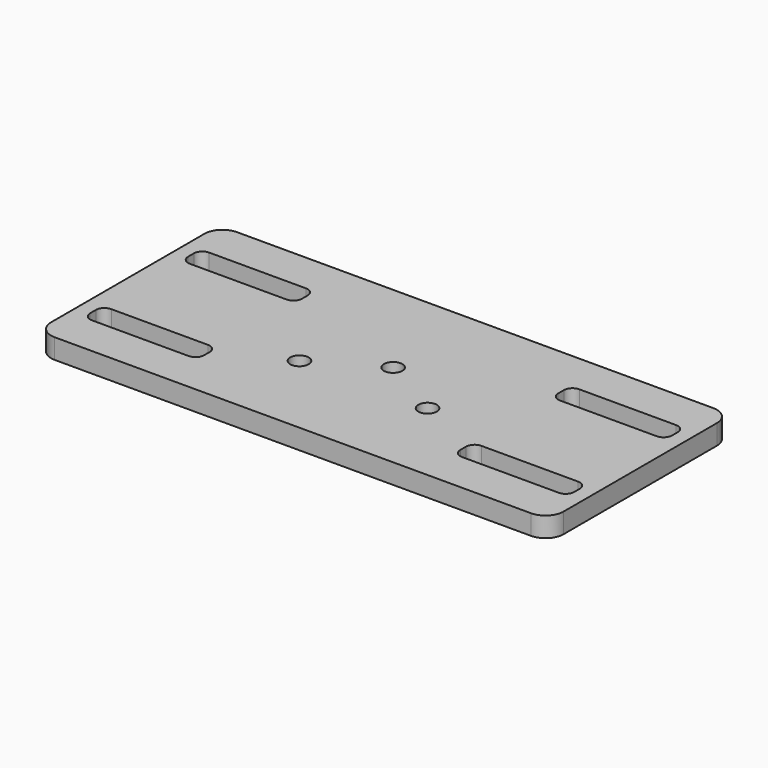
from build123d import *

# Parameters (mm, degrees)
F0_R     = 3.25
F1_DEPTH = 7


with BuildPart() as f1:
    # F0 (on Top) → F1 (new body)
    with BuildSketch(Plane.XY):
        with BuildLine():
            Line((83.65, 17.920281), (-83.65, 17.920281))
            ThreePointArc((-83.65, 17.920281), (-88.140128, 16.060409), (-90, 11.570281))
            Line((-90, 11.570281), (-90, -55.729719))
            ThreePointArc((-90, -55.729719), (-88.140128, -60.219847), (-83.65, -62.079719))
            Line((-83.65, -62.079719), (83.65, -62.079719))
            ThreePointArc((83.65, -62.079719), (88.140128, -60.219847), (90, -55.729719))
            Line((90, -55.729719), (90, 11.570281))
            ThreePointArc((90, 11.570281), (88.140128, 16.060409), (83.65, 17.920281))
        make_face()
        with BuildLine():
            ThreePointArc((-85, -42.329719), (-84.12132, -40.208398), (-82, -39.329719))
            Line((-82, -39.329719), (-48, -39.329719))
            ThreePointArc((-48, -39.329719), (-45.87868, -40.208398), (-45, -42.329719))
            Line((-45, -42.329719), (-45, -44.829719))
            ThreePointArc((-45, -44.829719), (-45.87868, -46.951039), (-48, -47.829719))
            Line((-48, -47.829719), (-82, -47.829719))
            ThreePointArc((-82, -47.829719), (-84.12132, -46.951039), (-85, -44.829719))
            Line((-85, -44.829719), (-85, -42.329719))
        make_face(mode=Mode.SUBTRACT)
        with Locations((-22.5, -31.079719)):
            Circle(F0_R, mode=Mode.SUBTRACT)
        with BuildLine():
            ThreePointArc((82, -39.329719), (84.12132, -40.208398), (85, -42.329719))
            Line((85, -42.329719), (85, -44.829719))
            ThreePointArc((85, -44.829719), (84.12132, -46.951039), (82, -47.829719))
            Line((82, -47.829719), (48, -47.829719))
            ThreePointArc((48, -47.829719), (45.87868, -46.951039), (45, -44.829719))
            Line((45, -44.829719), (45, -42.329719))
            ThreePointArc((45, -42.329719), (45.87868, -40.208398), (48, -39.329719))
            Line((48, -39.329719), (82, -39.329719))
        make_face(mode=Mode.SUBTRACT)
        with Locations((22.5, -31.079719)):
            Circle(F0_R, mode=Mode.SUBTRACT)
        with BuildLine():
            Line((-48, -4.829719), (-82, -4.829719))
            ThreePointArc((-82, -4.829719), (-84.12132, -3.951039), (-85, -1.829719))
            Line((-85, -1.829719), (-85, 0.670281))
            ThreePointArc((-85, 0.670281), (-84.12132, 2.791602), (-82, 3.670281))
            Line((-82, 3.670281), (-48, 3.670281))
            ThreePointArc((-48, 3.670281), (-45.87868, 2.791602), (-45, 0.670281))
            Line((-45, 0.670281), (-45, -1.829719))
            ThreePointArc((-45, -1.829719), (-45.87868, -3.951039), (-48, -4.829719))
        make_face(mode=Mode.SUBTRACT)
        with Locations((0, -18.079719)):
            Circle(F0_R, mode=Mode.SUBTRACT)
        with BuildLine():
            Line((85, 0.670281), (85, -1.829719))
            ThreePointArc((85, -1.829719), (84.12132, -3.951039), (82, -4.829719))
            Line((82, -4.829719), (48, -4.829719))
            ThreePointArc((48, -4.829719), (45.87868, -3.951039), (45, -1.829719))
            Line((45, -1.829719), (45, 0.670281))
            ThreePointArc((45, 0.670281), (45.87868, 2.791602), (48, 3.670281))
            Line((48, 3.670281), (82, 3.670281))
            ThreePointArc((82, 3.670281), (84.12132, 2.791602), (85, 0.670281))
        make_face(mode=Mode.SUBTRACT)
    extrude(amount=F1_DEPTH)


solid = f1.part
